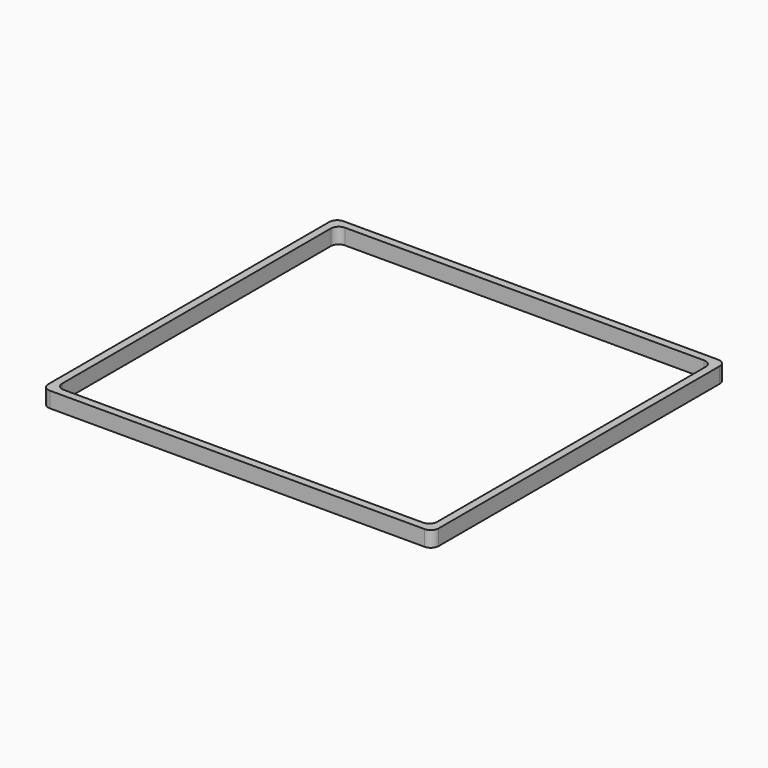
from build123d import *

# Parameters (mm, degrees)
F0_W     = 100
F0_H     = 94
F1_DEPTH = 4
F2_T     = -2
F3_R     = 2


with BuildPart() as f1:
    # F0 (on Top) → F1 (new body)
    with BuildSketch(Plane.XY):
        with Locations((50, 47)):
            Rectangle(F0_W, F0_H)
    extrude(amount=F1_DEPTH)

    # F2
    f2_openings = [f1.faces().sort_by_distance(p)[0] for p in [
        (50, 47, 4),
        (50, 47, 0),
    ]]
    offset(amount=F2_T, openings=f2_openings)

    # F3
    f3_edges = [f1.edges().sort_by_distance(p)[0] for p in [
        (0, 94, 2),
        (0, 0, 2),
        (100, 94, 2),
        (100, 0, 2),
        (2, 92, 2),
        (2, 2, 2),
        (98, 92, 2),
        (98, 2, 2),
    ]]
    fillet(f3_edges, radius=F3_R)


solid = f1.part
